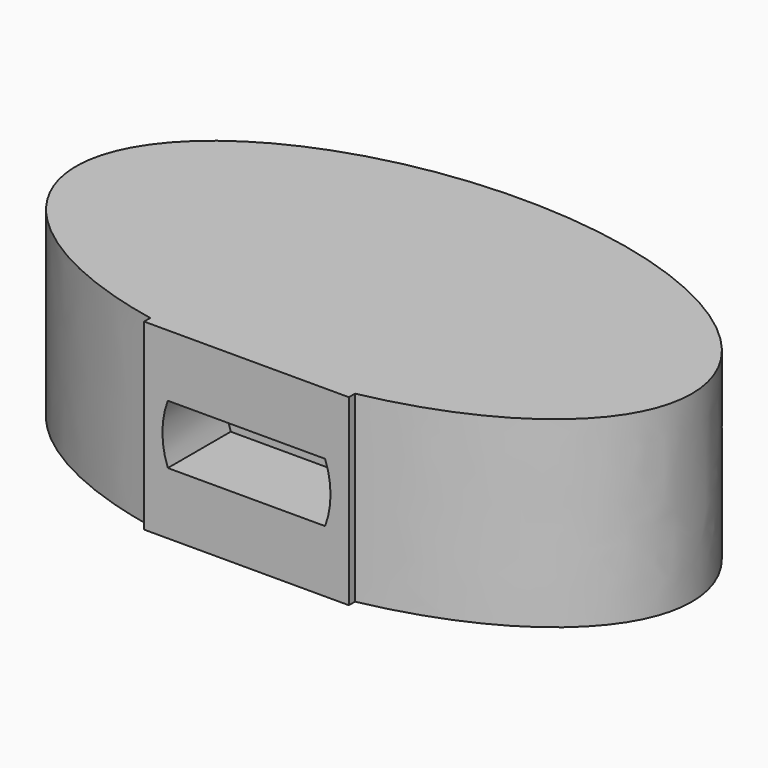
from build123d import *

# Parameters (mm, degrees)
F1_DEPTH = 17
F4_DEPTH = 7.3
F5_DEPTH = 8.655


with BuildPart() as f1:
    # F0 (on Top) → F1 (new body)
    with BuildSketch(Plane.XY):
        with BuildLine():
            add(Edge.make_bspline(
                [(9.5, -15.2362421185), (28.575, -11.4346846628), (28.575, 0)],
                knots=[5.0512980802, 5.0512980802, 5.0512980802, 6.2831853072, 6.2831853072, 6.2831853072], degree=2, weights=[1, 0.8162286575, 1]))
            add(Edge.make_bspline(
                [(28.575, 0), (28.575, 31.2271565392), (-16.5086057104, 13.1863231267), (-61.5922114207, -4.8545102857), (-9.5, -15.2362421185)],
                knots=[0, 0, 0, 2.1867399403, 2.1867399403, 4.3734798805, 4.3734798805, 4.3734798805], degree=2, weights=[1, 0.4594948402, 1, 0.4594948402, 1]))
            Line((-9.5, -15.2362421185), (-9.5, 0))
            Line((-9.5, 0), (9.5, 0))
            Line((9.5, 0), (9.5, -15.2362421185))
        make_face()
    extrude(amount=F1_DEPTH)

    # F3 (on offset) → F4 (join)
    with BuildSketch(Plane.XZ.offset(8.655)):
        with BuildLine():
            Line((9.5, 17), (-9.5, 17))
            Line((-9.5, 17), (-9.5, 11.25))
            Line((-9.5, 11.25), (-7.2991437854, 11.25))
            ThreePointArc((-7.2991437854, 11.25), (0, 16.3), (7.2991437854, 11.25))
            Line((7.2991437854, 11.25), (9.5, 11.25))
            Line((9.5, 11.25), (9.5, 17))
        make_face()
        with BuildLine():
            Line((-7.2991437854, 11.25), (-9.5, 11.25))
            Line((-9.5, 11.25), (-9.5, 5.75))
            Line((-9.5, 5.75), (-7.2991437854, 5.75))
            ThreePointArc((-7.2991437854, 5.75), (-7.8, 8.5), (-7.2991437854, 11.25))
        make_face()
        with BuildLine():
            Line((-7.2991437854, 5.75), (-9.5, 5.75))
            Line((-9.5, 5.75), (-9.5, 0))
            Line((-9.5, 0), (9.5, 0))
            Line((9.5, 0), (9.5, 5.75))
            Line((9.5, 5.75), (7.2991437854, 5.75))
            ThreePointArc((7.2991437854, 5.75), (0, 0.7), (-7.2991437854, 5.75))
        make_face()
        with BuildLine():
            Line((7.2991437854, 5.75), (-7.2991437854, 5.75))
            ThreePointArc((-7.2991437854, 5.75), (0, 0.7), (7.2991437854, 5.75))
        make_face()
        with BuildLine():
            ThreePointArc((7.2991437854, 11.25), (0, 16.3), (-7.2991437854, 11.25))
            Line((-7.2991437854, 11.25), (7.2991437854, 11.25))
        make_face()
        with BuildLine():
            Line((9.5, 5.75), (9.5, 11.25))
            Line((9.5, 11.25), (7.2991437854, 11.25))
            ThreePointArc((7.2991437854, 11.25), (7.6737644454, 9.8976191316), (7.8, 8.5))
            ThreePointArc((7.8, 8.5), (7.6737644454, 7.1023808684), (7.2991437854, 5.75))
            Line((7.2991437854, 5.75), (9.5, 5.75))
        make_face()
    extrude(amount=F4_DEPTH)

    # F3 (on offset) → F5 (join, through all)
    with BuildSketch(Plane.XZ.offset(8.655)):
        with BuildLine():
            Line((9.5, 17), (-9.5, 17))
            Line((-9.5, 17), (-9.5, 11.25))
            Line((-9.5, 11.25), (-7.2991437854, 11.25))
            ThreePointArc((-7.2991437854, 11.25), (0, 16.3), (7.2991437854, 11.25))
            Line((7.2991437854, 11.25), (9.5, 11.25))
            Line((9.5, 11.25), (9.5, 17))
        make_face()
        with BuildLine():
            ThreePointArc((7.2991437854, 11.25), (0, 16.3), (-7.2991437854, 11.25))
            Line((-7.2991437854, 11.25), (7.2991437854, 11.25))
        make_face()
        with BuildLine():
            Line((7.2991437854, 11.25), (-7.2991437854, 11.25))
            ThreePointArc((-7.2991437854, 11.25), (-7.8, 8.5), (-7.2991437854, 5.75))
            Line((-7.2991437854, 5.75), (7.2991437854, 5.75))
            ThreePointArc((7.2991437854, 5.75), (7.6737644454, 7.1023808684), (7.8, 8.5))
            ThreePointArc((7.8, 8.5), (7.6737644454, 9.8976191316), (7.2991437854, 11.25))
        make_face()
        with BuildLine():
            Line((-7.2991437854, 11.25), (-9.5, 11.25))
            Line((-9.5, 11.25), (-9.5, 5.75))
            Line((-9.5, 5.75), (-7.2991437854, 5.75))
            ThreePointArc((-7.2991437854, 5.75), (-7.8, 8.5), (-7.2991437854, 11.25))
        make_face()
        with BuildLine():
            Line((-7.2991437854, 5.75), (-9.5, 5.75))
            Line((-9.5, 5.75), (-9.5, 0))
            Line((-9.5, 0), (9.5, 0))
            Line((9.5, 0), (9.5, 5.75))
            Line((9.5, 5.75), (7.2991437854, 5.75))
            ThreePointArc((7.2991437854, 5.75), (0, 0.7), (-7.2991437854, 5.75))
        make_face()
        with BuildLine():
            Line((7.2991437854, 5.75), (-7.2991437854, 5.75))
            ThreePointArc((-7.2991437854, 5.75), (0, 0.7), (7.2991437854, 5.75))
        make_face()
        with BuildLine():
            Line((9.5, 5.75), (9.5, 11.25))
            Line((9.5, 11.25), (7.2991437854, 11.25))
            ThreePointArc((7.2991437854, 11.25), (7.6737644454, 9.8976191316), (7.8, 8.5))
            ThreePointArc((7.8, 8.5), (7.6737644454, 7.1023808684), (7.2991437854, 5.75))
            Line((7.2991437854, 5.75), (9.5, 5.75))
        make_face()
    extrude(amount=-F5_DEPTH)


solid = f1.part
